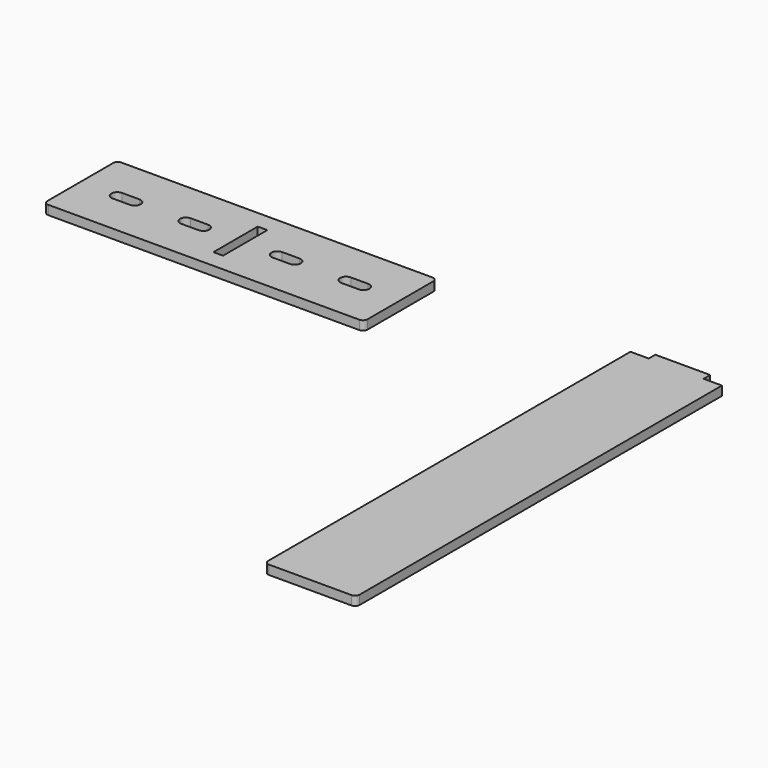
from build123d import *

# Parameters (mm, degrees)
F0_W     = 10.5
F0_H     = 60.5
F1_DEPTH = 10
F3_DEPTH = 10


with BuildPart() as f1:
    # F0 (on Top) → F1 (new body)
    with BuildSketch(Plane.XY):
        with BuildLine():
            Line((-170, -50), (170, -50))
            ThreePointArc((170, -50), (173.535534, -48.535534), (175, -45))
            Line((175, -45), (175, 45))
            ThreePointArc((175, 45), (173.535534, 48.535534), (170, 50))
            Line((170, 50), (-170, 50))
            ThreePointArc((-170, 50), (-173.535534, 48.535534), (-175, 45))
            Line((-175, 45), (-175, -45))
            ThreePointArc((-175, -45), (-173.535534, -48.535534), (-170, -50))
        make_face()
        with BuildLine():
            ThreePointArc((-115.5, 6.5), (-109, 0), (-115.5, -6.5))
            Line((-115.5, -6.5), (-134.5, -6.5))
            ThreePointArc((-134.5, -6.5), (-141, 0), (-134.5, 6.5))
            Line((-134.5, 6.5), (-115.5, 6.5))
        make_face(mode=Mode.SUBTRACT)
        with BuildLine():
            Line((-59.5, 6.5), (-40.5, 6.5))
            ThreePointArc((-40.5, 6.5), (-34, 0), (-40.5, -6.5))
            Line((-40.5, -6.5), (-59.5, -6.5))
            ThreePointArc((-59.5, -6.5), (-66, 0), (-59.5, 6.5))
        make_face(mode=Mode.SUBTRACT)
        Rectangle(F0_W, F0_H, mode=Mode.SUBTRACT)
        with BuildLine():
            ThreePointArc((59.5, 6.5), (66, 0), (59.5, -6.5))
            Line((59.5, -6.5), (40.5, -6.5))
            ThreePointArc((40.5, -6.5), (34, 0), (40.5, 6.5))
            Line((40.5, 6.5), (59.5, 6.5))
        make_face(mode=Mode.SUBTRACT)
        with BuildLine():
            ThreePointArc((134.5, 6.5), (141, 0), (134.5, -6.5))
            Line((134.5, -6.5), (115.5, -6.5))
            ThreePointArc((115.5, -6.5), (109, 0), (115.5, 6.5))
            Line((115.5, 6.5), (134.5, 6.5))
        make_face(mode=Mode.SUBTRACT)
    extrude(amount=F1_DEPTH)


with BuildPart() as f3:
    # F2 (on Top) → F3 (new body)
    with BuildSketch(Plane.XY):
        with BuildLine():
            Line((407.739371, 48.313109), (387.739371, 48.313109))
            Line((387.739371, 48.313109), (387.739371, -446.686891))
            ThreePointArc((387.739371, -446.686891), (389.203837, -450.222425), (392.739371, -451.686891))
            Line((392.739371, -451.686891), (482.739371, -451.686891))
            ThreePointArc((482.739371, -451.686891), (486.274905, -450.222425), (487.739371, -446.686891))
            Line((487.739371, -446.686891), (487.739371, 48.313109))
            Line((487.739371, 48.313109), (467.739371, 48.313109))
            Line((467.739371, 48.313109), (467.739371, 57.313109))
            Line((467.739371, 57.313109), (407.739371, 57.313109))
            Line((407.739371, 57.313109), (407.739371, 48.313109))
        make_face()
    extrude(amount=F3_DEPTH)


solid = Compound([f1.part, f3.part])
